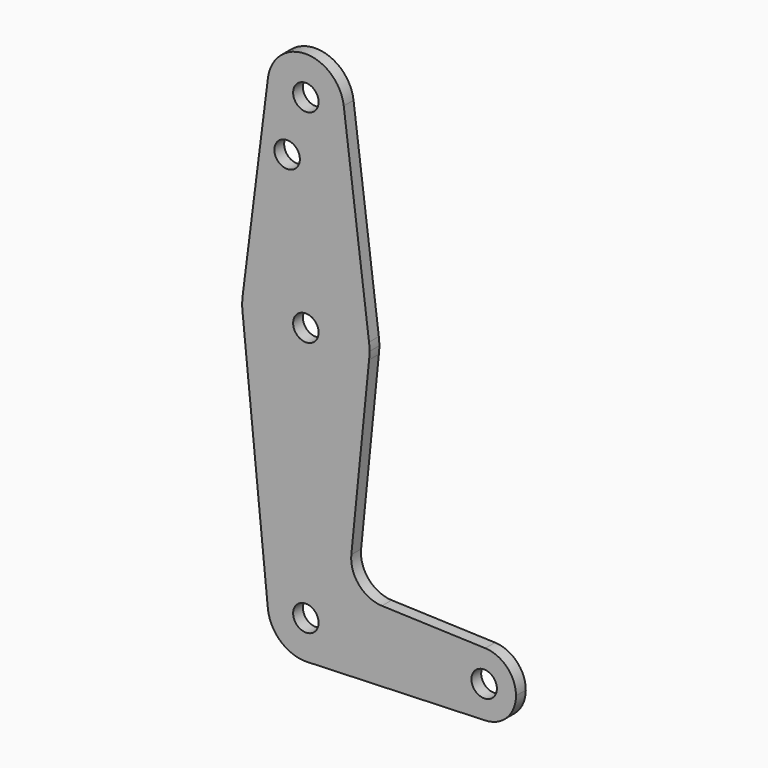
from build123d import *

# Parameters (mm, degrees)
F0_R     = 3.175
F1_DEPTH = 3.048


with BuildPart() as f1:
    # F0 (on Front) → F1 (new body)
    with BuildSketch(Plane.XZ):
        with BuildLine():
            ThreePointArc((9.449701, 51.79609), (9.506157, 51.199618), (9.525, 50.600777))
            ThreePointArc((9.525, 50.600777), (-0.598841, 41.09462), (-9.449701, 51.79609))
            Line((-9.449701, 51.79609), (-15.749502, 1.992188))
            ThreePointArc((-15.749502, 1.992188), (-10.497372, 11.908854), (0, 15.875))
            ThreePointArc((0, 15.875), (10.497372, 11.908854), (15.749502, 1.992188))
            Line((15.749502, 1.992188), (9.449701, 51.79609))
        make_face()
        with Locations((-4.67481, 36.5252)):
            Circle(F0_R, mode=Mode.SUBTRACT)
        with BuildLine():
            ThreePointArc((-9.449701, 51.79609), (-0.598841, 41.09462), (9.525, 50.600777))
            ThreePointArc((9.525, 50.600777), (9.506157, 51.199618), (9.449701, 51.79609))
            ThreePointArc((9.449701, 51.79609), (0, 60.125777), (-9.449701, 51.79609))
        make_face()
        with Locations((0, 50.600777)):
            Circle(F0_R, mode=Mode.SUBTRACT)
        with BuildLine():
            ThreePointArc((15.875, 0), (15.843594, 0.998068), (15.749502, 1.992188))
            ThreePointArc((15.749502, 1.992188), (10.497372, 11.908854), (0, 15.875))
            ThreePointArc((0, 15.875), (-10.497372, 11.908854), (-15.749502, 1.992188))
            ThreePointArc((-15.749502, 1.992188), (-15.874937, 0.044579), (-15.760442, -1.903703))
            ThreePointArc((-15.760442, -1.903703), (0, -15.875), (15.760442, -1.903703))
            ThreePointArc((15.760442, -1.903703), (15.846335, -0.953573), (15.875, 0))
        make_face()
        with BuildLine():
            ThreePointArc((3.175, 0), (-2.245064, -2.245064), (0, 3.175))
            ThreePointArc((0, 3.175), (2.245064, 2.245064), (3.175, 0))
        make_face(mode=Mode.SUBTRACT)
        with BuildLine():
            ThreePointArc((15.760442, -1.903703), (0, -15.875), (-15.760442, -1.903703))
            Line((-15.760442, -1.903703), (-9.477604, -64.64825))
            ThreePointArc((-9.477604, -64.64825), (-0.475105, -54.18608), (9.525, -63.699223))
            ThreePointArc((9.525, -63.699223), (6.854408, -70.31305), (0.340179, -73.218147))
            Line((0.340179, -73.218147), (44.733482, -71.631659))
            ThreePointArc((44.733482, -71.631659), (36.5125, -63.699223), (44.733482, -55.766787))
            Line((44.733482, -55.766787), (18.960761, -54.845745))
            ThreePointArc((18.960761, -54.845745), (13.255318, -52.128717), (11.334056, -46.108496))
            Line((11.334056, -46.108496), (15.760442, -1.903703))
        make_face()
        with BuildLine():
            ThreePointArc((9.525, -63.699223), (-0.475105, -54.18608), (-9.477604, -64.64825))
            ThreePointArc((-9.477604, -64.64825), (-6.263698, -70.874995), (0.340179, -73.218147))
            ThreePointArc((0.340179, -73.218147), (6.854408, -70.31305), (9.525, -63.699223))
        make_face()
        with Locations((0, -63.699223)):
            Circle(F0_R, mode=Mode.SUBTRACT)
        with BuildLine():
            ThreePointArc((44.733482, -55.766787), (36.5125, -63.699223), (44.733482, -71.631659))
            ThreePointArc((44.733482, -71.631659), (50.162007, -69.210746), (52.3875, -63.699223))
            ThreePointArc((52.3875, -63.699223), (50.162007, -58.1877), (44.733482, -55.766787))
        make_face()
        with Locations((44.45, -63.699223)):
            Circle(F0_R, mode=Mode.SUBTRACT)
    extrude(amount=F1_DEPTH)


solid = f1.part
